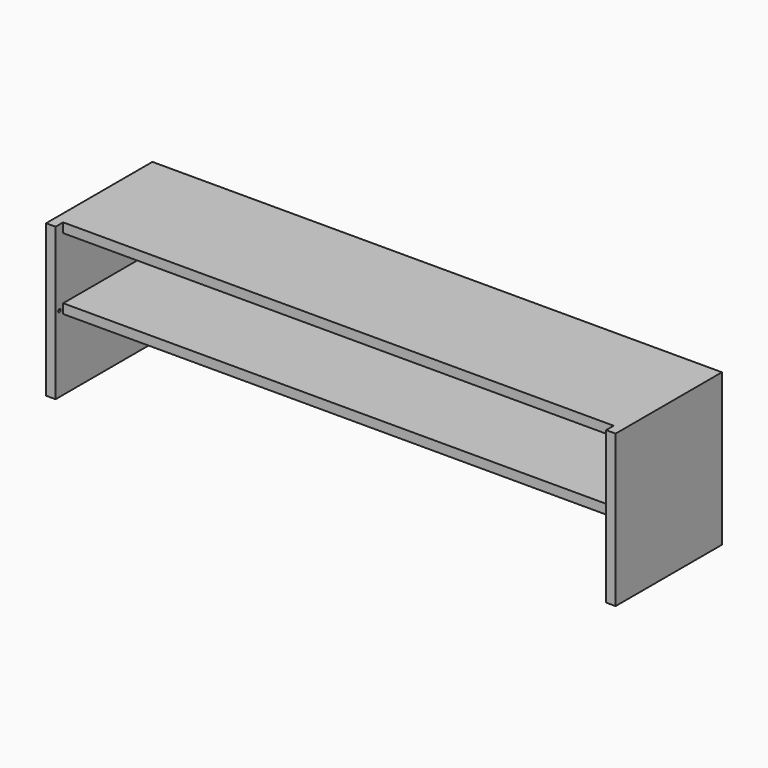
from build123d import *

# Parameters (mm, degrees)
F0_W     = 1500
F0_H     = 350
F1_DEPTH = 25
F2_W     = 25
F2_H     = 350
F3_DEPTH = 375
F4_W     = 325
F4_H     = 25
F5_DEPTH = 1450
F6_R     = 4
F7_DEPTH = 735
F8_W     = 1450
F8_H     = 25
F9_DEPTH = 25


with BuildPart() as f1:
    # F0 (on Top) → F1 (new body)
    with BuildSketch(Plane.XY):
        Rectangle(F0_W, F0_H)
    extrude(amount=F1_DEPTH)

    # F2 (on face) → F3 (join)
    with BuildSketch(Plane(origin=(0, 0, 0), x_dir=(1, 0, 0), z_dir=(0, 0, -1))):
        with Locations((-737.5, 0)):
            Rectangle(F2_W, F2_H)
        with Locations((737.5, 0)):
            Rectangle(F2_W, F2_H)
    extrude(amount=F3_DEPTH)

    # F4 (on face) → F5 (join, through all)
    with BuildSketch(Plane.YZ.offset(-725)):
        with Locations((12.5, -175)):
            Rectangle(F4_W, F4_H)
    extrude(amount=F5_DEPTH)

    # F6 (on Right) → F7 (cut, symmetric)
    with BuildSketch(Plane.YZ):
        with Locations((-162.5, -175)):
            Circle(F6_R)
    extrude(amount=F7_DEPTH, both=True, mode=Mode.SUBTRACT)

    # F8 (on face) → F9 (cut)
    with BuildSketch(Plane.XY.offset(25)):
        with Locations((0, -162.5)):
            Rectangle(F8_W, F8_H)
    extrude(amount=-F9_DEPTH, mode=Mode.SUBTRACT)


solid = f1.part
